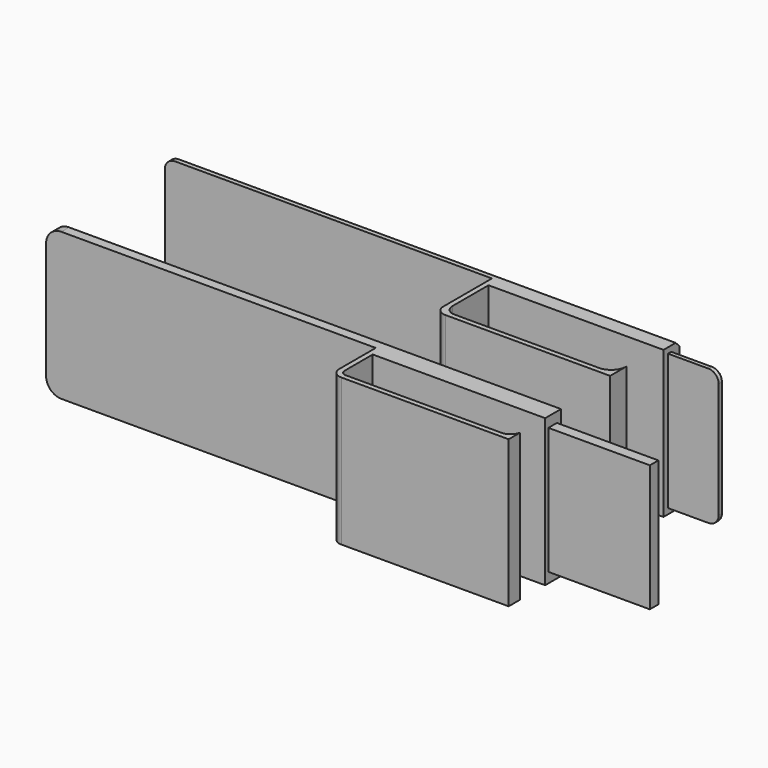
from build123d import *

# Parameters (mm, degrees)
F1_DEPTH  = 1.9
F0_W      = 35
F0_H      = 29
F2_DEPTH  = 12.9
F3_W      = 2.1
F3_H      = 25
F4_DEPTH  = 20
F5_R      = 2
F7_DEPTH  = 29
F9_DEPTH  = 29
F10_W     = 1.8
F10_H     = 26.8
F11_DEPTH = 10
F12_R     = 2
F13_SIZE  = 1
F14_SIZE  = 1


with BuildPart() as f1:
    # F0 (on Front) → F1 (new body)
    with BuildSketch(Plane.XZ):
        with BuildLine():
            Line((-97, 0), (-35, 0))
            Line((-35, 0), (-35, 29))
            Line((-35, 29), (-97, 29))
            ThreePointArc((-97, 29), (-99.12132, 28.12132), (-100, 26))
            Line((-100, 26), (-100, 3))
            ThreePointArc((-100, 3), (-99.12132, 0.87868), (-97, 0))
        make_face()
    extrude(amount=F1_DEPTH)

    # F0 (on Front) → F2 (join)
    with BuildSketch(Plane.XZ):
        with Locations((-17.5, 14.5)):
            Rectangle(F0_W, F0_H)
    extrude(amount=F2_DEPTH)

    # F3 (on face) → F4 (join)
    with BuildSketch(Plane.YZ):
        with Locations((-2.05, 14.5)):
            Rectangle(F3_W, F3_H)
    extrude(amount=F4_DEPTH)

    # F5
    f5_edges = [f1.edges().sort_by_distance(p)[0] for p in [
        (-35, -12.9, 14.5),
    ]]
    fillet(f5_edges, radius=F5_R)

    # F6 (on face) → F7 (cut)
    with BuildSketch(Plane.XY.offset(29)):
        with BuildLine():
            Line((-34.000002, -3.9), (-34.000002, -10.9))
            ThreePointArc((-34.000002, -10.9), (-33.707108, -11.607108), (-33, -11.900002))
            Line((-33, -11.900002), (-2.492048, -11.900002))
            Line((-2.492048, -11.900002), (-2.014314, -11.900002))
            ThreePointArc((-2.014314, -11.900002), (-0.706069, -11.313625), (0, -10.065902))
            Line((0, -10.065902), (0, -9.163091))
            Line((0, -9.163091), (0, -3.9))
            Line((0, -3.9), (-34.000002, -3.9))
        make_face()
    extrude(amount=-F7_DEPTH, mode=Mode.SUBTRACT)


with BuildPart() as f9:
    # F8 (on Top) → F9 (new body)
    with BuildSketch(Plane.XY):
        with BuildLine():
            Line((0, 25.265098), (0, 29.265098))
            Line((0, 29.265098), (-100, 29.265098))
            Line((-100, 29.265098), (-100, 27.365098))
            Line((-100, 27.365098), (-35.5, 27.365098))
            Line((-35.5, 27.365098), (-35.5, 15.365098))
            ThreePointArc((-35.5, 15.365098), (-34.914214, 13.950884), (-33.5, 13.365098))
            Line((-33.5, 13.365098), (-1, 13.365098))
            Line((-1, 13.365098), (-1, 17.365098))
            ThreePointArc((-1, 17.365098), (-1.87868, 15.243777), (-4, 14.365098))
            Line((-4, 14.365098), (-32.5, 14.365098))
            ThreePointArc((-32.5, 14.365098), (-33.914214, 14.950884), (-34.5, 16.365098))
            Line((-34.5, 16.365098), (-34.5, 25.265098))
            Line((-34.5, 25.265098), (0, 25.265098))
        make_face()
    extrude(amount=F9_DEPTH)

    # F10 (on face) → F11 (join)
    with BuildSketch(Plane.YZ):
        with Locations((27.265098, 14.5)):
            Rectangle(F10_W, F10_H)
    extrude(amount=F11_DEPTH)

    # F12
    f12_edges = [f9.edges().sort_by_distance(p)[0] for p in [
        (10, 27.265098, 27.9),
        (10, 27.265098, 1.1),
        (-100, 28.315098, 29),
        (-100, 28.315098, 0),
    ]]
    fillet(f12_edges, radius=F12_R)

    # F13
    f13_edges = [f9.edges().sort_by_distance(p)[0] for p in [
        (10, 28.165098, 14.5),
    ]]
    chamfer(f13_edges, length=F13_SIZE)

    # F14
    f14_edges = [f9.edges().sort_by_distance(p)[0] for p in [
        (-100, 29.265098, 14.5),
    ]]
    chamfer(f14_edges, length=F14_SIZE)


solid = Compound([f1.part, f9.part])
